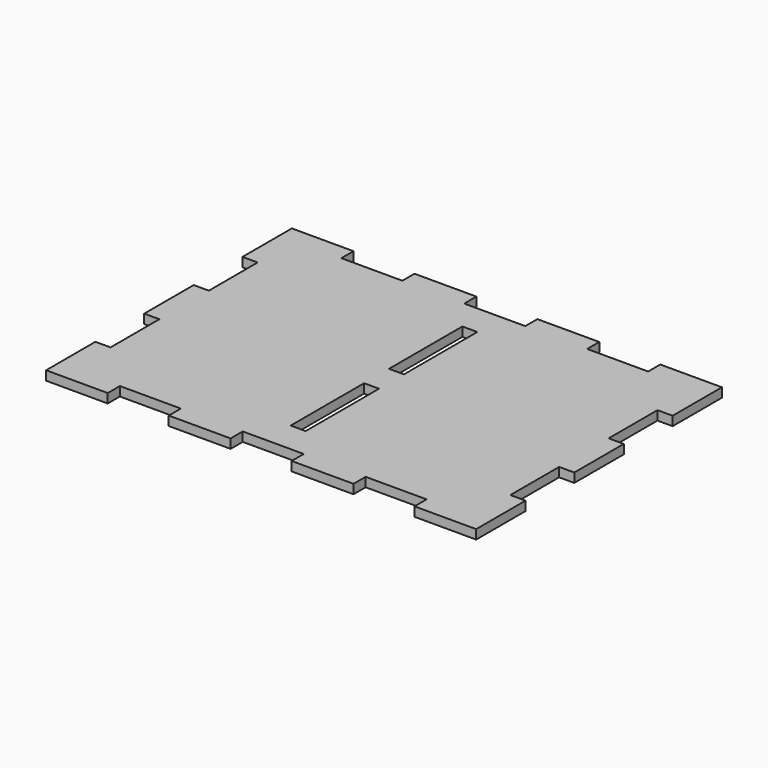
from build123d import *

# Parameters (mm, degrees)
F1_DEPTH = 3.81
F2_W     = 6.1722
F2_H     = 37.9222
F3_DEPTH = 3.811


with BuildPart() as f1:
    # F0 (on Top) → F1 (new body)
    with BuildSketch(Plane.XY):
        Polygon((25.4889, 127), (0, 127), (0, 101.5111), (6.2611, 101.5111), (6.2611, 76.2889), (0, 76.2889), (0, 50.7111), (6.2611, 50.7111), (6.2611, 25.4889), (0, 25.4889), (0, 0), (25.4889, 0), (25.4889, 6.2611), (50.7111, 6.2611), (50.7111, 0), (76.2889, 0), (76.2889, 6.2611), (101.5111, 6.2611), (101.5111, 0), (127.0889, 0), (127.0889, 6.2611), (152.3111, 6.2611), (152.3111, 0), (177.8, 0), (177.8, 25.4889), (171.5389, 25.4889), (171.5389, 50.7111), (177.8, 50.7111), (177.8, 76.2889), (171.5389, 76.2889), (171.5389, 101.5111), (177.8, 101.5111), (177.8, 127), (152.3111, 127), (152.3111, 120.7389), (127.0889, 120.7389), (127.0889, 127), (101.5111, 127), (101.5111, 120.7389), (76.2889, 120.7389), (76.2889, 127), (50.7111, 127), (50.7111, 120.7389), (25.4889, 120.7389), align=None)
    extrude(amount=F1_DEPTH)

    # F2 (on face) → F3 (cut, through all)
    with BuildSketch(Plane.XY.offset(3.81)):
        with Locations((88.9, 88.9)):
            Rectangle(F2_W, F2_H)
        with Locations((88.9, 38.1)):
            Rectangle(F2_W, F2_H)
    extrude(amount=-F3_DEPTH, mode=Mode.SUBTRACT)


solid = f1.part
